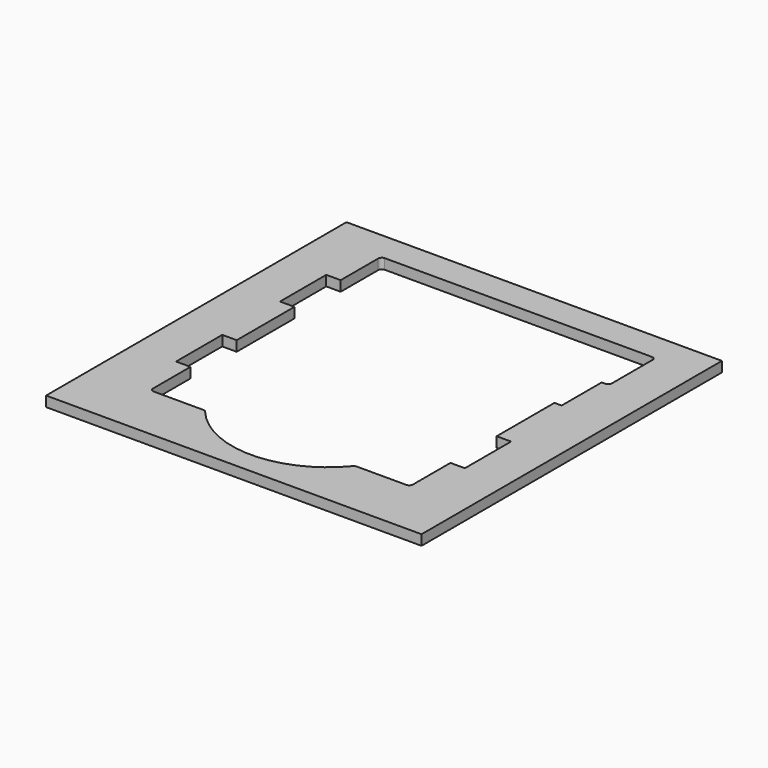
from build123d import *

# Parameters (mm, degrees)
F1_DEPTH      = 8.89
F3_DEPTH      = 4.9276
F3_DEPTH_BACK = 2.54
F7_DEPTH      = 13.6535
F8_W          = 330.2
F8_H          = 330.2
F9_DEPTH      = 8.9916
F13_DEPTH     = 25.4
F15_DEPTH     = 8.9926
F16_W         = 7.7724
F16_H         = 50.8
F16_W_2       = 1.4224
F16_H_2       = 44.069
F17_DEPTH     = 8.9926


with BuildPart() as f1:
    # F0 (on Top) → F1 (new body)
    with BuildSketch(Plane.XY):
        with BuildLine():
            Line((67.3940027121, -114.3), (111.125, -114.3))
            ThreePointArc((111.125, -114.3), (113.3700640303, -113.3700640303), (114.3, -111.125))
            Line((114.3, -111.125), (114.3, 85.344))
            ThreePointArc((114.3, 85.344), (115.2299359697, 87.5890640303), (117.475, 88.519))
            Line((117.475, 88.519), (123.825, 88.519))
            ThreePointArc((123.825, 88.519), (126.0700640303, 89.4489359697), (127, 91.694))
            Line((127, 91.694), (127, 111.125))
            ThreePointArc((127, 111.125), (126.0700640303, 113.3700640303), (123.825, 114.3))
            Line((123.825, 114.3), (114.3, 114.3))
            Line((114.3, 114.3), (-111.125, 114.3))
            ThreePointArc((-111.125, 114.3), (-113.3700640303, 113.3700640303), (-114.3, 111.125))
            Line((-114.3, 111.125), (-114.3, -111.125))
            ThreePointArc((-114.3, -111.125), (-113.3700640303, -113.3700640303), (-111.125, -114.3))
            Line((-111.125, -114.3), (-67.3940027121, -114.3))
            ThreePointArc((-67.3940027121, -114.3), (-66.0408699293, -114.6027784431), (-64.9458155322, -115.4533658758))
            ThreePointArc((-64.9458155322, -115.4533658758), (0, -146.05), (64.9458155322, -115.4533658758))
            ThreePointArc((64.9458155322, -115.4533658758), (66.0408699293, -114.6027784431), (67.3940027121, -114.3))
        make_face()
    extrude(amount=F1_DEPTH)

    # F2 (on face) → F3 (join, two sides)
    with BuildSketch(Plane.YZ.offset(114.3)) as f3_sk:
        Polygon((50.8, -3.175), (66.675, -3.175), (69.85, -4.7625), (69.85, -1.9226936686), (67.2746126628, -0.635), (51.3996126628, -0.635), (50.1296126628, 0), (44.45, 0), align=None)
        Polygon((44.45, 2.8398063314), (44.45, 0), (50.1296126628, 0), align=None)
    extrude(amount=F3_DEPTH)
    extrude(f3_sk.sketch, amount=-F3_DEPTH_BACK)


with BuildPart() as f4_1:
    # F4: copy of F1
    add(f1.part.moved(Location((0, -114.3, 0))))


with BuildPart() as f1_1:
    add(f1.part)

    add(f4_1.part)  # F5 merges F4_1
    # F5: F1, F4_1 across plane
    add(f1.part.mirror(Plane.YZ))
    add(f4_1.part.mirror(Plane.YZ))

    # F6 (on face) → F7 (cut, through all)
    with BuildSketch(Plane.XY.offset(8.89)):
        with BuildLine():
            Line((33.2011497354, -114.3), (-33.2011497354, -114.3))
            ThreePointArc((-33.2011497354, -114.3), (-37.5757853229, -117.1799565804), (-36.6596028328, -122.33671875))
            ThreePointArc((-36.6596028328, -122.33671875), (0, -138.1125), (36.6596028328, -122.33671875))
            ThreePointArc((36.6596028328, -122.33671875), (37.5757853229, -117.1799565804), (33.2011497354, -114.3))
        make_face()
    extrude(amount=-F7_DEPTH, mode=Mode.SUBTRACT)


with BuildPart() as f9:
    # F8 (on Top) → F9 (new body)
    with BuildSketch(Plane.XY):
        Rectangle(F8_W, F8_H)
        with BuildLine():
            ThreePointArc((-114.3, 111.125), (-113.3700640303, 113.3700640303), (-111.125, 114.3))
            Line((-111.125, 114.3), (123.825, 114.3))
            ThreePointArc((123.825, 114.3), (126.0700640303, 113.3700640303), (127, 111.125))
            Line((127, 111.125), (127, 91.694))
            ThreePointArc((127, 91.694), (126.0700640303, 89.4489359697), (123.825, 88.519))
            Line((123.825, 88.519), (117.475, 88.519))
            ThreePointArc((117.475, 88.519), (115.2299359697, 87.5890640303), (114.3, 85.344))
            Line((114.3, 85.344), (114.3, 69.85))
            Line((114.3, 69.85), (119.2276, 69.85))
            Line((119.2276, 69.85), (119.2276, 67.2746126628))
            Line((119.2276, 67.2746126628), (119.2276, 51.3996126628))
            Line((119.2276, 51.3996126628), (119.2276, 44.45))
            Line((119.2276, 44.45), (114.3, 44.45))
            Line((114.3, 44.45), (114.3, -44.45))
            Line((114.3, -44.45), (119.2276, -44.45))
            Line((119.2276, -44.45), (119.2276, -47.0253873372))
            Line((119.2276, -47.0253873372), (119.2276, -62.9003873372))
            Line((119.2276, -62.9003873372), (119.2276, -69.85))
            Line((119.2276, -69.85), (114.3, -69.85))
            Line((114.3, -69.85), (114.3, -111.125))
            ThreePointArc((114.3, -111.125), (113.3700640303, -113.3700640303), (111.125, -114.3))
            Line((111.125, -114.3), (67.3940027121, -114.3))
            ThreePointArc((67.3940027121, -114.3), (66.0408699293, -114.6027784431), (64.9458155322, -115.4533658758))
            ThreePointArc((64.9458155322, -115.4533658758), (0, -146.05), (-64.9458155322, -115.4533658758))
            ThreePointArc((-64.9458155322, -115.4533658758), (-66.0408699293, -114.6027784431), (-67.3940027121, -114.3))
            Line((-67.3940027121, -114.3), (-111.125, -114.3))
            ThreePointArc((-111.125, -114.3), (-113.3700640303, -113.3700640303), (-114.3, -111.125))
            Line((-114.3, -111.125), (-114.3, -69.85))
            Line((-114.3, -69.85), (-119.2276, -69.85))
            Line((-119.2276, -69.85), (-119.2276, -62.9003873372))
            Line((-119.2276, -62.9003873372), (-119.2276, -47.0253873372))
            Line((-119.2276, -47.0253873372), (-119.2276, -44.45))
            Line((-119.2276, -44.45), (-114.3, -44.45))
            Line((-114.3, -44.45), (-114.3, 44.45))
            Line((-114.3, 44.45), (-119.2276, 44.45))
            Line((-119.2276, 44.45), (-119.2276, 51.3996126628))
            Line((-119.2276, 51.3996126628), (-119.2276, 67.2746126628))
            Line((-119.2276, 67.2746126628), (-119.2276, 69.85))
            Line((-119.2276, 69.85), (-114.3, 69.85))
            Line((-114.3, 69.85), (-114.3, 111.125))
        make_face(mode=Mode.SUBTRACT)
    extrude(amount=F9_DEPTH)

    # F11 (on face) → F13 (cut)
    with BuildSketch(Plane.XY.offset(8.9916)):
        with BuildLine():
            ThreePointArc((123.825, 114.3), (124.3749261314, 114.2520123521), (124.9082288539, 114.1095))
            ThreePointArc((124.9082288539, 114.1095), (126.4249881357, 115.2717248577), (127, 117.094))
            Line((127, 117.094), (127, 136.525))
            ThreePointArc((127, 136.525), (126.0700640303, 138.7700640303), (123.825, 139.7))
            Line((123.825, 139.7), (-111.125, 139.7))
            ThreePointArc((-111.125, 139.7), (-113.3700640303, 138.7700640303), (-114.3, 136.525))
            Line((-114.3, 136.525), (-114.3, 111.125))
            ThreePointArc((-114.3, 111.125), (-113.3700640303, 113.3700640303), (-111.125, 114.3))
            Line((-111.125, 114.3), (123.825, 114.3))
        make_face()
        Polygon((-114.3, 69.85), (-114.3, 95.25), (-119.2276, 95.25), (-119.2276, 92.6746126628), (-119.2276, 76.7996126628), (-119.2276, 69.85), align=None)
        Polygon((-114.3, -44.45), (-114.3, -19.05), (-119.2276, -19.05), (-119.2276, -21.6253873372), (-119.2276, -37.5003873372), (-119.2276, -44.45), align=None)
        Polygon((119.2276, -19.05), (114.3, -19.05), (114.3, -44.45), (119.2276, -44.45), (119.2276, -37.5003873372), (119.2276, -21.6253873372), align=None)
        with BuildLine():
            ThreePointArc((117.475, 88.519), (115.2299359697, 87.5890640303), (114.3, 85.344))
            Line((114.3, 85.344), (114.3, 69.85))
            Line((114.3, 69.85), (119.2276, 69.85))
            Line((119.2276, 69.85), (119.2276, 76.7996126628))
            Line((119.2276, 76.7996126628), (119.2276, 88.519))
            Line((119.2276, 88.519), (117.475, 88.519))
        make_face()
    extrude(amount=-F13_DEPTH, mode=Mode.SUBTRACT)

    # F14 (on face) → F15 (cut, through all)
    with BuildSketch(Plane.XY.offset(8.9916)):
        with BuildLine():
            Line((127, 111.125), (127, 117.094))
            ThreePointArc((127, 117.094), (126.4249881357, 115.2717248577), (124.9082288539, 114.1095))
            ThreePointArc((124.9082288539, 114.1095), (126.4249881357, 112.9472751423), (127, 111.125))
        make_face()
    extrude(amount=-F15_DEPTH, mode=Mode.SUBTRACT)

    # F16 (on face) → F17 (cut, through all)
    with BuildSketch(Plane.XY.offset(8.9916)):
        with Locations((-123.1138, 69.85)):
            Rectangle(F16_W, F16_H)
        with Locations((-123.1138, -44.45)):
            Rectangle(F16_W, F16_H)
        with Locations((123.1138, -44.45)):
            Rectangle(F16_W, F16_H)
        with Locations((119.9388, 66.4845)):
            Rectangle(F16_W_2, F16_H_2)
    extrude(amount=-F17_DEPTH, mode=Mode.SUBTRACT)


with BuildPart() as f1_2:
    # F10: moved
    add(f1_1.part.moved(Location((0, 25.4, 0))))


solid = f9.part
